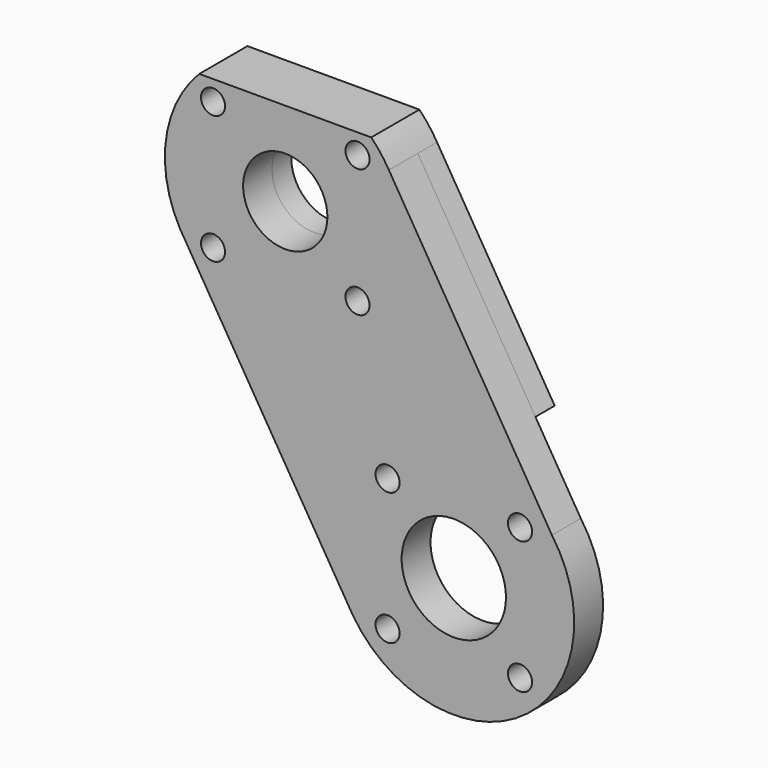
from build123d import *

# Parameters (mm, degrees)
F0_R     = 3
F0_R_2   = 13
F0_R_3   = 10.5
F1_DEPTH = 9
F2_R     = 3
F2_R_2   = 10.5
F3_DEPTH = 6


with BuildPart() as f1:
    # F0 (on Front) → F1 (new body)
    with BuildSketch(Plane.XZ):
        with BuildLine():
            Line((-68.315586, 54.595489), (-25.15564, -16.346062))
            ThreePointArc((-25.15564, -16.346062), (16.873102, -24.80521), (24.443739, 17.392631))
            Line((24.443739, 17.392631), (-16.17679, 84.269638))
            ThreePointArc((-16.17679, 84.269638), (-18.203137, 87.267712), (-20.575715, 90))
            Line((-20.575715, 90), (-63.424285, 90))
            ThreePointArc((-63.424285, 90), (-71.717733, 73.105646), (-68.315586, 54.595489))
        make_face()
        with Locations((-16.5, -16.5)):
            Circle(F0_R, mode=Mode.SUBTRACT)
        with Locations((16.5, -16.5)):
            Circle(F0_R, mode=Mode.SUBTRACT)
        Circle(F0_R_2, mode=Mode.SUBTRACT)
        with Locations((-16.5, 16.5)):
            Circle(F0_R, mode=Mode.SUBTRACT)
        with Locations((16.5, 16.5)):
            Circle(F0_R, mode=Mode.SUBTRACT)
        with Locations((-60, 53)):
            Circle(F0_R, mode=Mode.SUBTRACT)
        with Locations((-24, 53)):
            Circle(F0_R, mode=Mode.SUBTRACT)
        with Locations((-60, 85)):
            Circle(F0_R, mode=Mode.SUBTRACT)
        with Locations((-42, 69)):
            Circle(F0_R_3, mode=Mode.SUBTRACT)
        with Locations((-24, 85)):
            Circle(F0_R, mode=Mode.SUBTRACT)
    extrude(amount=F1_DEPTH)

    # F2 (on face) → F3 (join)
    with BuildSketch(Plane(origin=(0, 0, 0), x_dir=(-1, 0, 0), z_dir=(0, 1, 0))):
        with BuildLine():
            Line((-13.14178, 36), (57.002325, 36))
            Line((57.002325, 36), (68.315586, 54.595489))
            ThreePointArc((68.315586, 54.595489), (71.717733, 73.105646), (63.424285, 90))
            Line((63.424285, 90), (20.575715, 90))
            ThreePointArc((20.575715, 90), (18.203137, 87.267712), (16.17679, 84.269638))
            Line((16.17679, 84.269638), (-13.14178, 36))
        make_face()
        with Locations((24, 53)):
            Circle(F2_R, mode=Mode.SUBTRACT)
        with Locations((60, 53)):
            Circle(F2_R, mode=Mode.SUBTRACT)
        with Locations((42, 69)):
            Circle(F2_R_2, mode=Mode.SUBTRACT)
        with Locations((24, 85)):
            Circle(F2_R, mode=Mode.SUBTRACT)
        with Locations((60, 85)):
            Circle(F2_R, mode=Mode.SUBTRACT)
    extrude(amount=F3_DEPTH)


solid = f1.part
